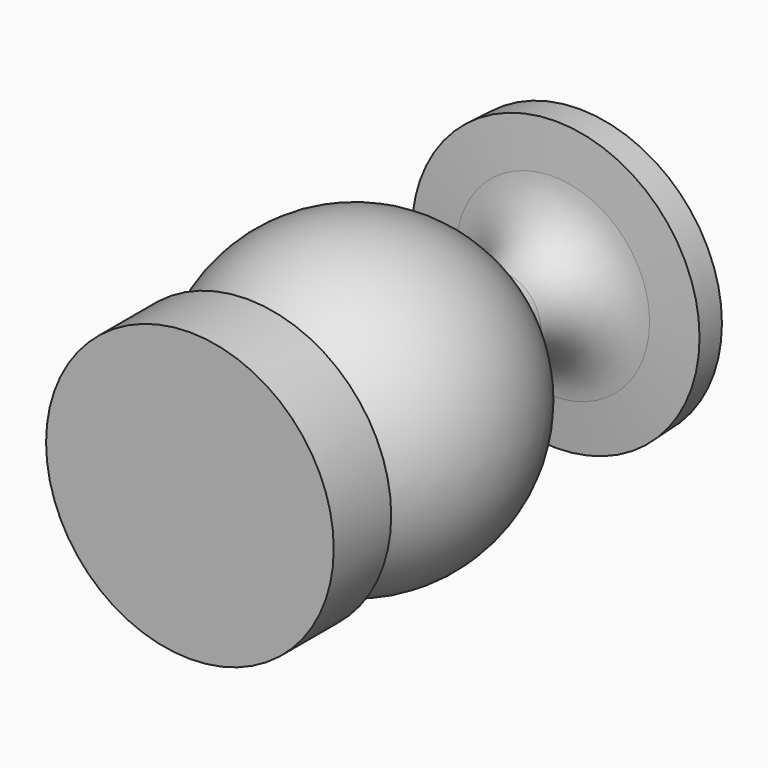
from build123d import *


with BuildPart() as f1:
    # F0 (on Top) → F1 (revolve)
    with BuildSketch(Plane.XY):
        with BuildLine():
            Line((4.3055568822, -11.3186549984), (4.3055568822, -11.4741066296))
            ThreePointArc((4.3055568822, -11.4741066296), (4.5621377493, -11.3745260195), (4.8164176953, -11.26920865))
            Line((4.8164176953, -11.26920865), (4.3055568822, -11.3186549984))
        make_face()
        with BuildLine():
            Line((4.3055568822, 11.4741066296), (4.3055568822, -11.3186549984))
            Line((4.3055568822, -11.3186549984), (4.8164176953, -11.26920865))
            ThreePointArc((4.8164176953, -11.26920865), (12.2522325527, 0.2752098983), (4.3055568822, 11.4741066296))
        make_face()
        with BuildLine():
            ThreePointArc((4.8164176953, -11.26920865), (4.5621377493, -11.3745260195), (4.3055568822, -11.4741066296))
            Line((4.3055568822, -11.4741066296), (4.3055568822, -11.3186549984))
            Line((4.3055568822, -11.3186549984), (3.0400070827, -11.4411478862))
            Line((3.0400070827, -11.4411478862), (3.0504977217, 14.5622070821))
            ThreePointArc((3.0504977217, 14.5622070821), (4.3788646889, 17.9541719184), (7.6561319409, 19.5446132439))
            Line((7.6561319409, 19.5446132439), (11.3729834557, 19.8386888951))
            Line((11.3729834557, 19.8386888951), (11.2672676422, 22.1825259078))
            Line((11.2672676422, 22.1825259078), (0, 21.6743300063))
            Line((0, 21.6743300063), (0, -16.3153428584))
            Line((0, -16.3153428584), (11.3729834557, -16.3153428584))
            Line((11.3729834557, -16.3153428584), (11.3729834557, -10.6345969778))
            Line((11.3729834557, -10.6345969778), (4.8164176953, -11.26920865))
        make_face()
    revolve(axis=Axis((0, 2.6794935739, 0), (0, -1, 0)))


solid = f1.part
